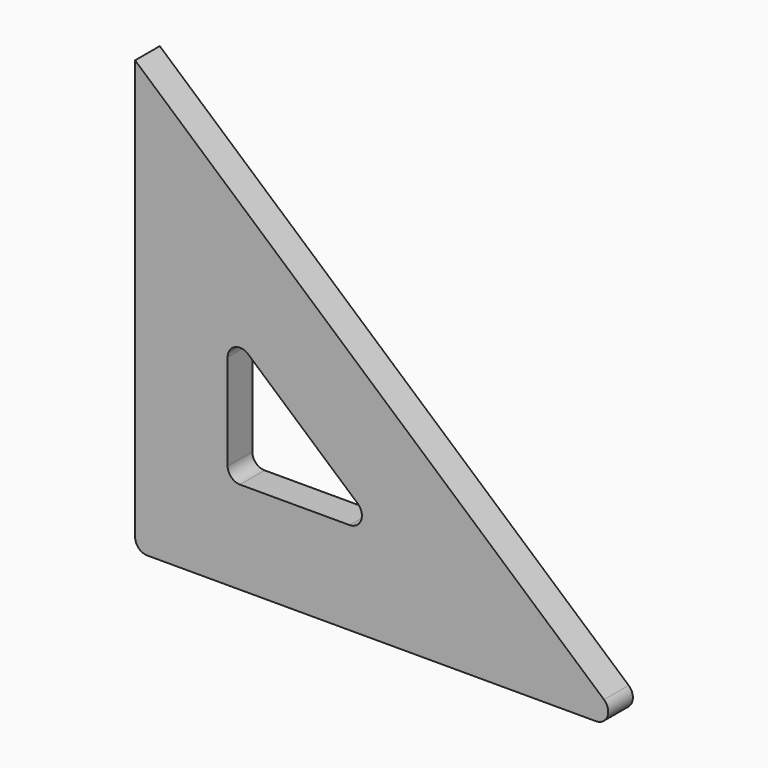
from build123d import *

# Parameters (mm, degrees)
F1_DEPTH = 6.35


with BuildPart() as f1:
    # F0 (on Front) → F1 (new body)
    with BuildSketch(Plane.XZ):
        with BuildLine():
            Line((-99.06, 0), (-6.760081, 0))
            ThreePointArc((-6.760081, 0), (-4.382381, 1.646614), (-5.08748, 4.451545))
            Line((-5.08748, 4.451545), (-101.6, 88.9))
            Line((-101.6, 88.9), (-101.6, 2.54))
            ThreePointArc((-101.6, 2.54), (-100.856051, 0.743949), (-99.06, 0))
        make_face()
        with BuildLine():
            ThreePointArc((-82.55, 41.320644), (-81.059569, 43.633652), (-78.337398, 43.232189))
            Line((-78.337398, 43.232189), (-55.788091, 23.501545))
            ThreePointArc((-55.788091, 23.501545), (-55.082992, 20.696614), (-57.460693, 19.05))
            Line((-57.460693, 19.05), (-80.01, 19.05))
            ThreePointArc((-80.01, 19.05), (-81.806051, 19.793949), (-82.55, 21.59))
            Line((-82.55, 21.59), (-82.55, 41.320644))
        make_face(mode=Mode.SUBTRACT)
    extrude(amount=F1_DEPTH)


solid = f1.part
